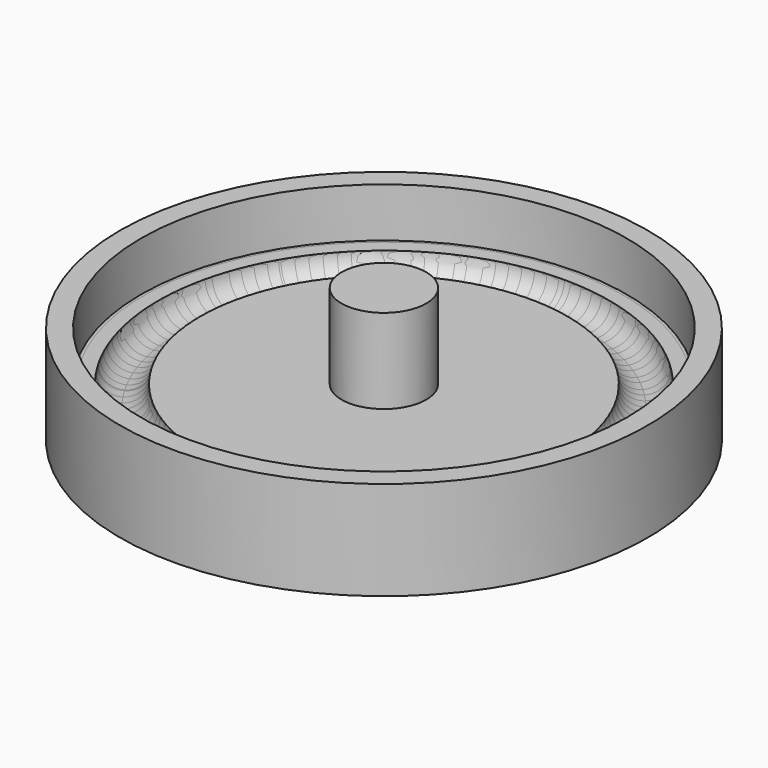
from build123d import *

# Parameters (mm, degrees)
BODY002_PLACEMENT_ANGLE = 180


with BuildPart() as oringmold_16mm_outer_stl:
    # Sketch → Revolution (revolve)
    with BuildSketch(Plane.XZ):
        with BuildLine():
            Line((-16, 0), (-17.2, 0))
            Line((-17.2, 0), (-17.2, 3.5))
            Line((-17.2, 3.5), (-18.7, 3.5))
            Line((-18.7, 3.5), (-18.7, -3.5))
            Line((-18.7, -3.5), (-3.2, -3.5))
            Line((-3.2, -3.5), (-3.2, 0))
            Line((-3.2, 0), (-13, 0))
            ThreePointArc((-16, 0), (-14.5, -1.5), (-13, 0))
        make_face()
    revolve(axis=Axis((0, 0, 0), (0, 0, 1)))


with BuildPart() as oringmold_16mm_inner_stl:
    # Sketch001 → Revolution001 (revolve)
    with BuildSketch(Plane.XZ):
        with BuildLine():
            ThreePointArc((-13, 0), (-14.5, 1.5), (-16, 0))
            Line((-17, 0), (-16, 0))
            Line((-17, 2.5), (-17, 0))
            Line((0, 2.5), (-17, 2.5))
            Line((0, 2.5), (0, -6))
            Line((0, -6), (-3, -6))
            Line((-3, -6), (-3, 0))
            Line((-3, 0), (-13, 0))
        make_face()
    revolve(axis=Axis((0, 0, 0), (0, 0, 1)))


with BuildPart() as oringmold_16mm_inner_stl_1:
    # Body002 placement: moved
    add(oringmold_16mm_inner_stl.part.rotate(Axis((0, 0, 0), (0, 1, 0)), BODY002_PLACEMENT_ANGLE))


solid = Compound([oringmold_16mm_outer_stl.part, oringmold_16mm_inner_stl_1.part])
